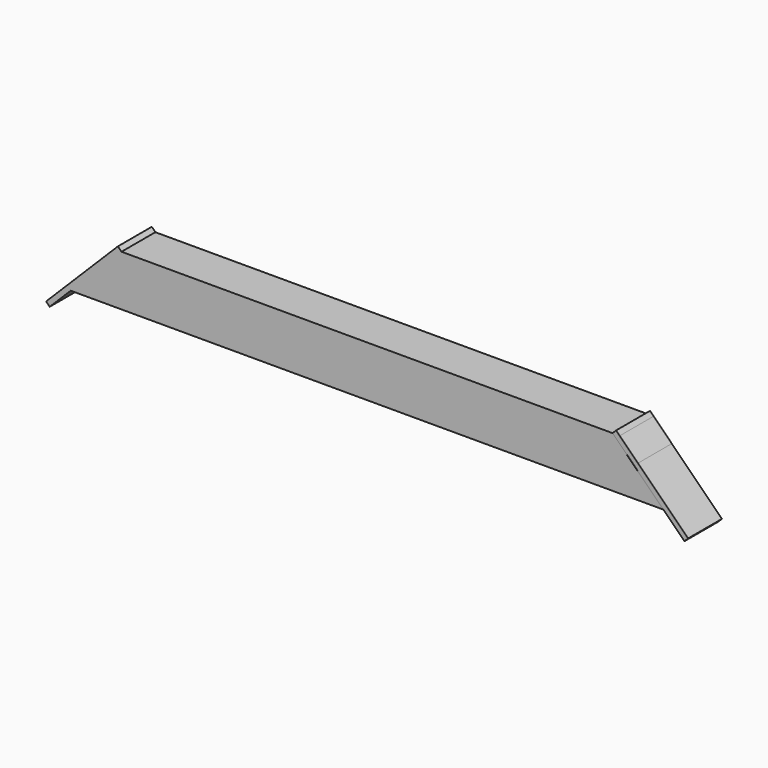
from build123d import *

# Parameters (mm, degrees)
F1_DEPTH = 25


with BuildPart() as f1:
    # F0 (on Front) → F1 (new body)
    with BuildSketch(Plane.XZ):
        Polygon((320, 0), (30, 0), (0, -30), (350, -30), align=None)
        Polygon((0, -30), (30, 0), (25.7573593129, 0), (0, -25.7573593129), align=None)
        Polygon((-12.4264068712, -42.4264068712), (0, -30), (0, -25.7573593129), (-14.5477272148, -40.3050865276), align=None)
        Polygon((25.7573593129, 0), (30, 0), (27.8786796564, 2.1213203436), align=None)
    extrude(amount=F1_DEPTH)


with BuildPart() as f1b:
    # F0 (on Front) → F1, piece 2 (new body)
    with BuildSketch(Plane.XZ):
        Polygon((324.2469506412, 0), (320, 0), (350, -29.9392024028), (350, -25.7008585747), (335, -10.7312573733), align=None)
        Polygon((322.1191675534, 2.1234709512), (320, 0), (324.2469506412, 0), align=None)
        Polygon((350, -25.7008585747), (350, -29.9392024028), (362.4694190233, -42.3833510688), (364.5885865767, -40.2598801177), align=None)
    extrude(amount=F1_DEPTH)


solid = Compound([f1.part, f1b.part])
